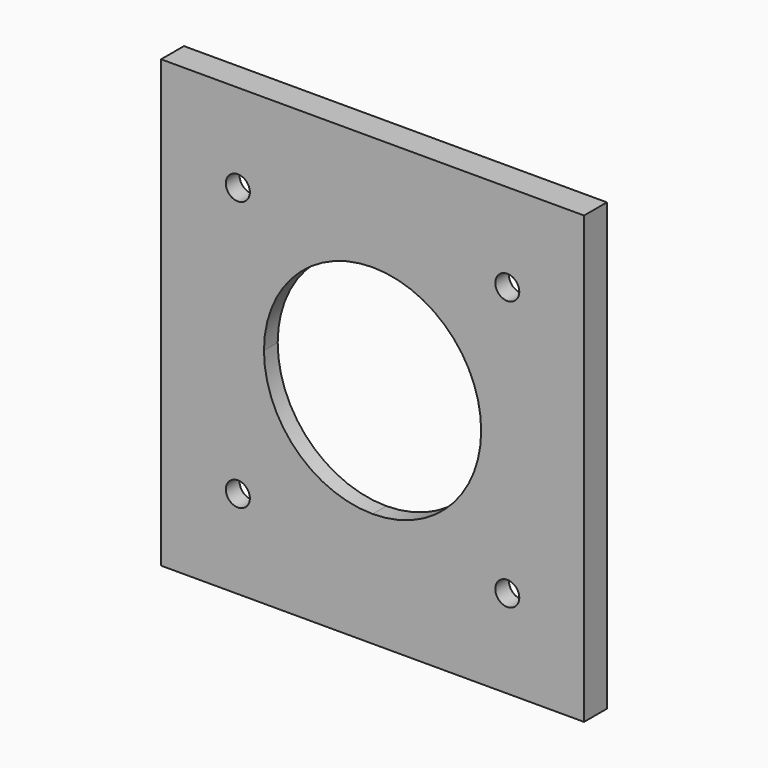
from build123d import *

# Parameters (mm, degrees)
F0_W     = 8.8
F0_H     = 10.8
F0_W_2   = 56.4
F0_R     = 2.1
F1_DEPTH = 5
F2_DEPTH = 2


with BuildPart() as f1:
    # F0 (on Front) → F1 (new body)
    with BuildSketch(Plane.XZ):
        with Locations((-4.4, 33.6)):
            Rectangle(F0_W, F0_H)
        with Locations((-37, 33.6)):
            Rectangle(F0_W_2, F0_H)
        Polygon((0, 0), (0, 28.2), (-8.8, 28.2), (-8.8, 0), (-8.8, -28.2), (0, -28.2), align=None)
        with Locations((-69.6, 33.6)):
            Rectangle(F0_W, F0_H)
        Polygon((-65.2, 0), (-65.2, 28.2), (-74, 28.2), (-74, 0), (-74, -28.2), (-65.2, -28.2), align=None)
        with Locations((-4.4, -33.6)):
            Rectangle(F0_W, F0_H)
        with Locations((-37, -33.6)):
            Rectangle(F0_W_2, F0_H)
        with Locations((-69.6, -33.6)):
            Rectangle(F0_W, F0_H)
        Polygon((-8.8, 0), (-8.8, 28.2), (-65.2, 28.2), (-65.2, 0), (-65.2, -28.2), (-8.8, -28.2), align=None)
        with Locations((-60.57, -23.57)):
            Circle(F0_R, mode=Mode.SUBTRACT)
        with Locations((-13.43, -23.57)):
            Circle(F0_R, mode=Mode.SUBTRACT)
        with Locations((-60.57, 23.57)):
            Circle(F0_R, mode=Mode.SUBTRACT)
        with BuildLine():
            ThreePointArc((-37, 19), (-23.5649711575, 13.4350288425), (-18, 0))
            ThreePointArc((-18, 0), (-23.5649711575, -13.4350288425), (-37, -19))
            ThreePointArc((-37, -19), (-50.4350288425, -13.4350288425), (-56, 0))
            ThreePointArc((-56, 0), (-50.4350288425, 13.4350288425), (-37, 19))
        make_face(mode=Mode.SUBTRACT)
        with Locations((-13.43, 23.57)):
            Circle(F0_R, mode=Mode.SUBTRACT)
    extrude(amount=F1_DEPTH)

    # F0 (on Front) → F2 (cut)
    with BuildSketch(Plane.XZ):
        Polygon((-8.8, 0), (-8.8, 28.2), (-65.2, 28.2), (-65.2, 0), (-65.2, -28.2), (-8.8, -28.2), align=None)
        with Locations((-60.57, -23.57)):
            Circle(F0_R, mode=Mode.SUBTRACT)
        with Locations((-13.43, -23.57)):
            Circle(F0_R, mode=Mode.SUBTRACT)
        with Locations((-60.57, 23.57)):
            Circle(F0_R, mode=Mode.SUBTRACT)
        with BuildLine():
            ThreePointArc((-37, 19), (-23.5649711575, 13.4350288425), (-18, 0))
            ThreePointArc((-18, 0), (-23.5649711575, -13.4350288425), (-37, -19))
            ThreePointArc((-37, -19), (-50.4350288425, -13.4350288425), (-56, 0))
            ThreePointArc((-56, 0), (-50.4350288425, 13.4350288425), (-37, 19))
        make_face(mode=Mode.SUBTRACT)
        with Locations((-13.43, 23.57)):
            Circle(F0_R, mode=Mode.SUBTRACT)
    extrude(amount=F2_DEPTH, mode=Mode.SUBTRACT)


solid = f1.part
